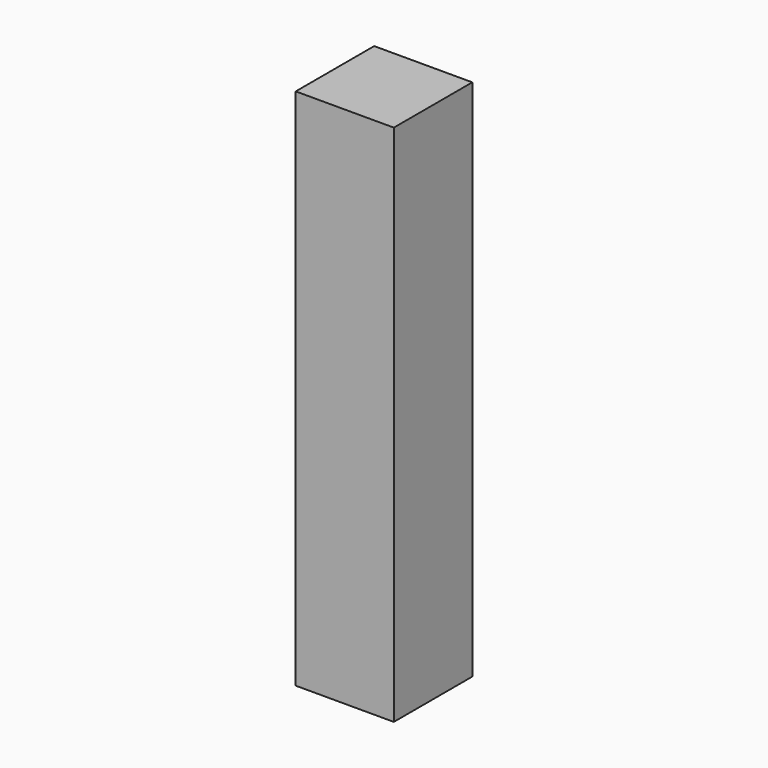
from build123d import *

# Parameters (mm, degrees)
SKETCH_W  = 30
SKETCH_H  = 30
PAD_DEPTH = 160


with BuildPart() as part:
    # Sketch → Pad (new body)
    with BuildSketch(Plane.XY):
        with Locations((15, 15)):
            Rectangle(SKETCH_W, SKETCH_H)
    extrude(amount=PAD_DEPTH)


solid = part.part
